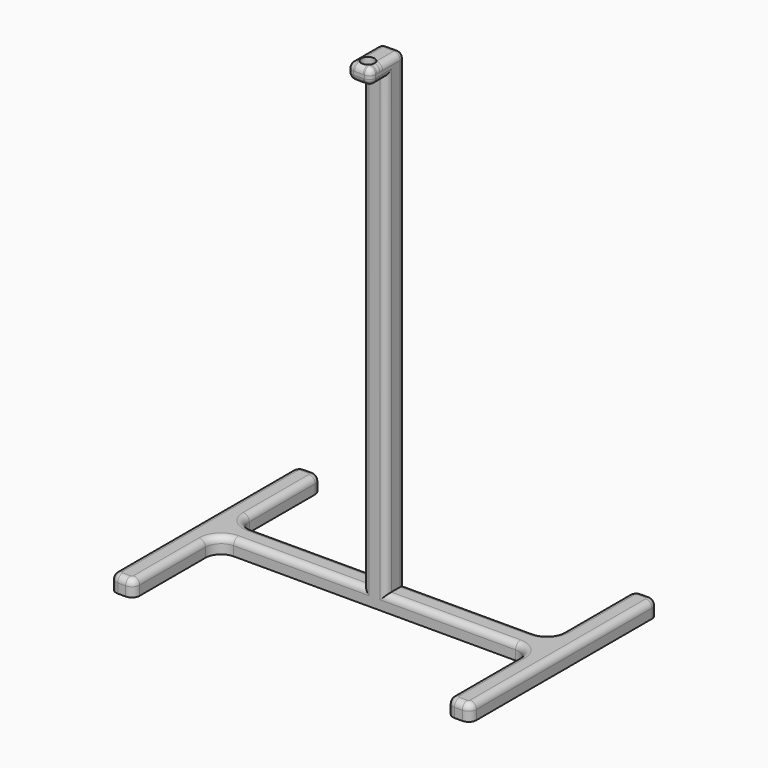
from build123d import *

# Parameters (mm, degrees)
SKETCH_W     = 100
SKETCH_H     = 7.5
PAD_DEPTH    = 5
FILLET_R     = 5
SKETCH001_W  = 7.5
SKETCH001_H  = 7.5
PAD001_DEPTH = 150
SKETCH002_W  = 7.5
SKETCH002_H  = 5
PAD002_DEPTH = 10
SKETCH003_R  = 2.1
POCKET_DEPTH = 5
FILLET001_R  = 2


with BuildPart() as part:
    # Sketch → Pad (new body)
    with BuildSketch(Plane.XY):
        Rectangle(SKETCH_W, SKETCH_H)
        with BuildLine():
            Line((50, 35), (50, -35))
            ThreePointArc((50, -35), (50.732233, -36.767767), (52.5, -37.5))
            Line((52.5, -37.5), (55, -37.5))
            ThreePointArc((55, -37.5), (56.767767, -36.767767), (57.5, -35))
            Line((57.5, -35), (57.5, 35))
            ThreePointArc((57.5, 35), (56.767767, 36.767767), (55, 37.5))
            Line((55, 37.5), (52.5, 37.5))
            ThreePointArc((52.5, 37.5), (50.732233, 36.767767), (50, 35))
        make_face()
        with BuildLine():
            Line((-52.5, 37.5), (-55, 37.5))
            ThreePointArc((-55, 37.5), (-56.767767, 36.767767), (-57.5, 35))
            Line((-57.5, 35), (-57.5, -35))
            ThreePointArc((-57.5, -35), (-56.767767, -36.767767), (-55, -37.5))
            Line((-55, -37.5), (-52.5, -37.5))
            ThreePointArc((-52.5, -37.5), (-50.732233, -36.767767), (-50, -35))
            Line((-50, -35), (-50, 35))
            ThreePointArc((-50, 35), (-50.732233, 36.767767), (-52.5, 37.5))
        make_face()
    extrude(amount=PAD_DEPTH)

    # Fillet
    fillet_edges = [part.edges().sort_by_distance(p)[0] for p in [
        (-50, -3.75, 2.5),
        (50, -3.75, 2.5),
        (-50, 3.75, 2.5),
        (50, 3.75, 2.5),
    ]]
    fillet(fillet_edges, radius=FILLET_R)

    # Sketch001 (on Face5 of Fillet) → Pad001 (join)
    with BuildSketch(Plane.XY.offset(5)):
        Rectangle(SKETCH001_W, SKETCH001_H)
    extrude(amount=PAD001_DEPTH)

    # Sketch002 → Pad002 (join)
    with BuildSketch(Plane.XZ):
        with Locations((0, 152.5)):
            Rectangle(SKETCH002_W, SKETCH002_H)
    extrude(amount=PAD002_DEPTH)

    # Sketch003 (on Face32 of Pad002) → Pocket (cut)
    with BuildSketch(Plane.XY.offset(155)):
        with Locations((0, -6.4)):
            Circle(SKETCH003_R)
    extrude(amount=-POCKET_DEPTH, mode=Mode.SUBTRACT)

    # Fillet001
    fillet001_edges = [part.edges().sort_by_distance(p)[0] for p in [
        (-50, -21.875, 5),
        (-3.75, -3.75, 77.5),
        (24.375, -3.75, 5),
        (3.75, -3.75, 77.5),
        (-3.75, 3.75, 80),
        (3.75, 3.75, 80),
        (0, -10, 155),
        (3.75, -3.125, 155),
        (-3.75, -3.125, 155),
        (0, 3.75, 155),
        (3.75, -6.875, 150),
        (3.75, -10, 152.5),
        (0, -10, 150),
        (-3.75, -10, 152.5),
        (-3.75, -6.875, 150),
    ]]
    fillet(fillet001_edges, radius=FILLET001_R)


solid = part.part
